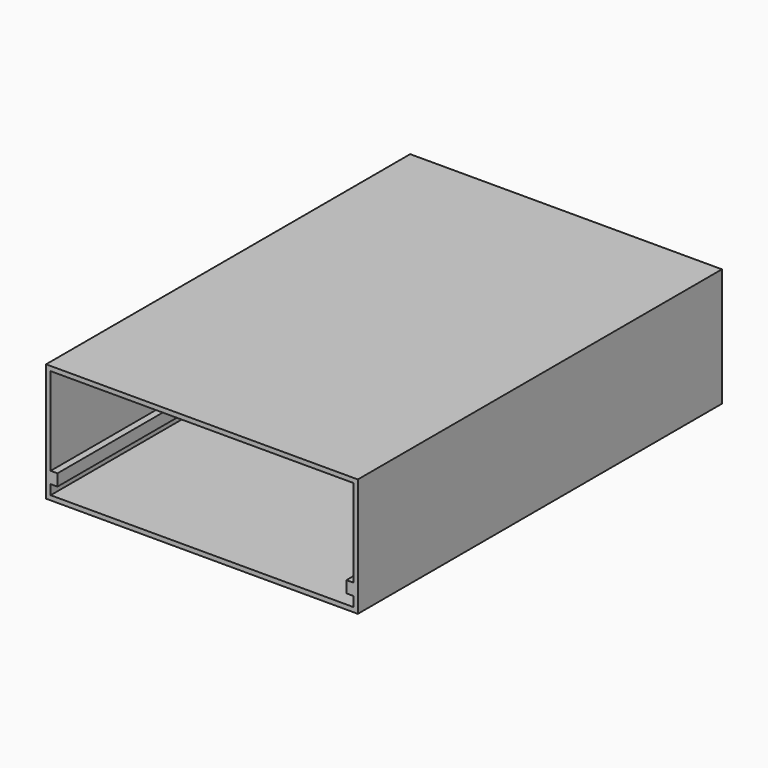
from build123d import *

# Parameters (mm, degrees)
F1_DEPTH = 100


with BuildPart() as f1:
    # F0 (on Front) → F1 (new body)
    with BuildSketch(Plane.XZ):
        Polygon((34.25, 13), (0, 13), (0, 12), (33.25, 12), (33.25, -7.28112), (31.75, -7.28112), (31.75, -9.850783), (33.25, -9.850783), (33.25, -12), (0, -12), (0, -13), (34.25, -13), align=None)
    extrude(amount=F1_DEPTH)

    # F2: F1 across face


with BuildPart() as f1_1:
    add(f1.part)
    add(f1.part.mirror(Plane(origin=(0, -50, 12.5), x_dir=(0, -1, 0), z_dir=(-1, 0, 0))))


solid = f1_1.part
